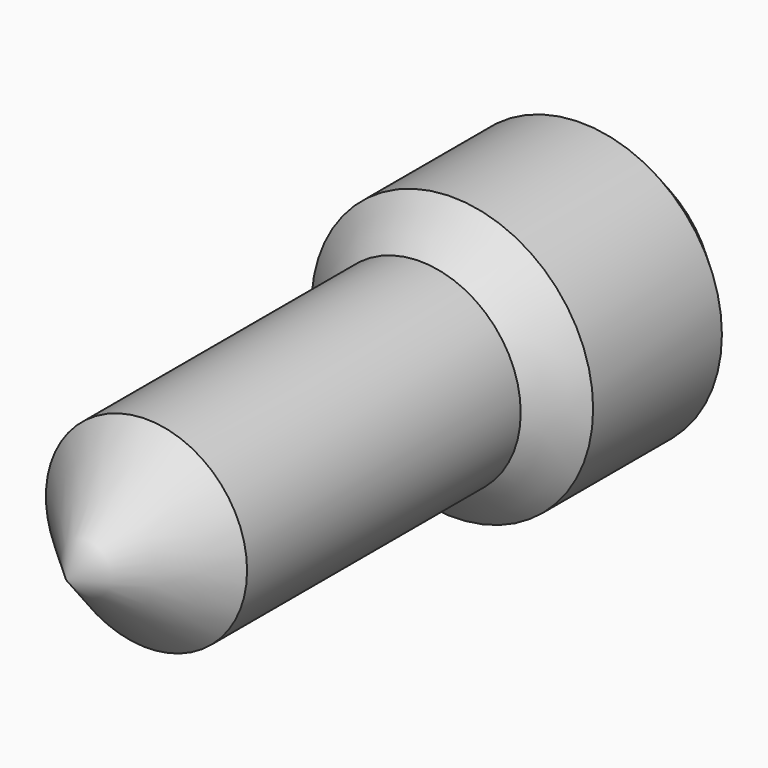
from build123d import *

# Parameters (mm, degrees)
F0_R      = 17.5
F1_DEPTH  = 30
F2_SIZE   = 5
F3_R      = 8.75
F1_FACE_R = 12.5
F4_DEPTH  = 55
F5_SIZE   = 12.5


with BuildPart() as f1:
    # F0 (on Front) → F1 (new body)
    with BuildSketch(Plane.XZ):
        Circle(F0_R)
    extrude(amount=F1_DEPTH)

    # F2
    f2_edges = [f1.edges().sort_by_distance(p)[0] for p in [
        (17.5, -15, 0),
        (-17.5, 0, 0),
        (-17.5, -30, 0),
    ]]
    chamfer(f2_edges, length=F2_SIZE)

    # F3 (on Front) + F1_face (on face) → F4 (join)
    with BuildSketch(Plane.XZ):
        Circle(F3_R)
    with BuildSketch(Plane.XZ.offset(30)):
        Circle(F1_FACE_R)
    extrude(amount=F4_DEPTH)

    # F5
    f5_edges = [f1.edges().sort_by_distance(p)[0] for p in [
        (-12.5, -85, 0),
    ]]
    chamfer(f5_edges, length=F5_SIZE)


solid = f1.part
